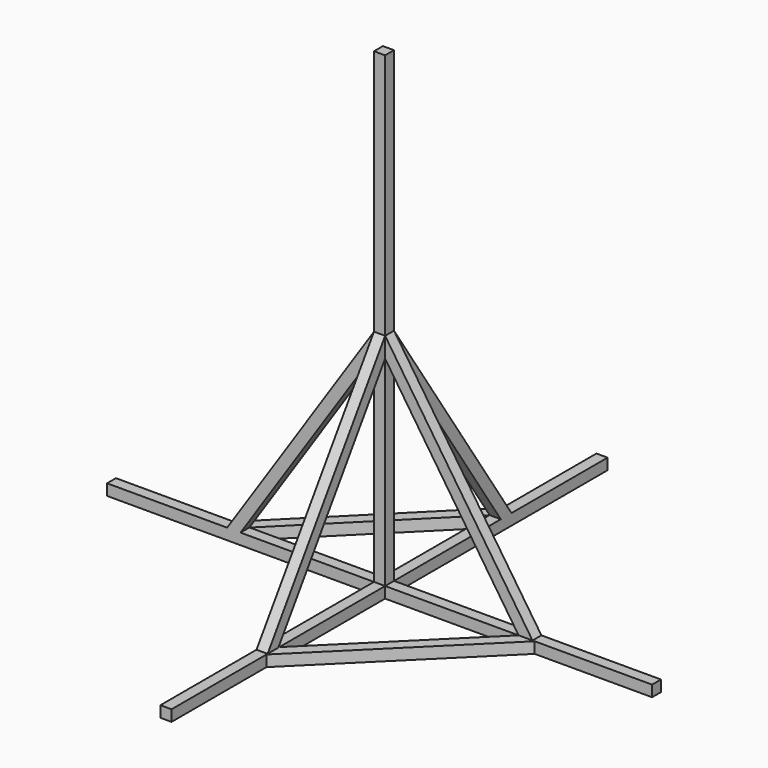
from build123d import *

# Parameters (mm, degrees)
F0_W      = 25.4
F0_H      = 25.4
F1_DEPTH  = 622.3
F2_W      = 25.4
F2_H      = 25.4
F3_DEPTH  = 622.3
F4_W      = 25.4
F4_H      = 25.4
F5_DEPTH  = 622.3
F6_W      = 25.4
F6_H      = 25.4
F7_DEPTH  = 622.3
F9_DEPTH  = 12.7
F10_DEPTH = 12.7
F11_W     = 25.4
F11_H     = 25.4
F12_DEPTH = 1079.5
F14_DEPTH = 12.7
F15_DEPTH = 12.7
F17_DEPTH = 12.7
F18_DEPTH = 12.7
F19_ANGLE = 90
F21_ANGLE = 180


with BuildPart() as f1:
    # F0 (on Front) → F1 (new body)
    with BuildSketch(Plane.XZ):
        Rectangle(F0_W, F0_H)
    extrude(amount=F1_DEPTH)

    # F2 (on Front) → F3 (join)
    with BuildSketch(Plane.XZ):
        Rectangle(F2_W, F2_H)
    extrude(amount=-F3_DEPTH)

    # F4 (on Top) → F5 (join)
    with BuildSketch(Plane.XY):
        Rectangle(F4_W, F4_H)
    extrude(amount=-F5_DEPTH)



with BuildPart() as f7:
    # F6 (on Top) → F7 (new body)
    with BuildSketch(Plane.XY):
        Rectangle(F6_W, F6_H)
    extrude(amount=F7_DEPTH)


with BuildPart() as f1_1:
    add(f1.part)

    add(f7.part)  # F9 merges F7
    # F8 (on Right) → F9 (join)
    with BuildSketch(Plane.YZ):
        Polygon((12.7, 317.5), (317.4895992739, 10.1820296971), (353.2631639393, 10.1820296971), (352.6753836214, 10.7746859253), (317.529985282, 10.7746859253), (12.7403860081, 318.0926562282), (12.7403860081, 353.5296019405), (12.7, 353.5703229692), align=None)
        Polygon((317.529985282, 10.7746859253), (352.6753836214, 10.7746859253), (12.7403860081, 353.5296019405), (12.7403860081, 318.0926562282), align=None)
        Polygon((12.7403860081, 353.5296019405), (352.6753836214, 10.7746859253), (353.3035499474, 10.7746859253), (12.7403860081, 354.1629791974), align=None)
        Polygon((-352.787982248, -12.7), (-317.5, -12.7), (-12.7, -317.5), (-12.7, -352.787982248), (-12.6596139919, -352.8283682561), (-12.6596139919, -316.9073437718), (-317.4596139919, -12.1073437718), (-353.3806384762, -12.1073437718), align=None)
        Polygon((-12.7, -317.5), (-317.5, -12.7), (-352.787982248, -12.7), (-12.7, -352.787982248), align=None)
        Polygon((-12.7, -352.787982248), (-352.787982248, -12.7), (-353.4210244843, -12.7), (-12.7, -353.4210244843), align=None)
    extrude(amount=F9_DEPTH)

    # F8 (on Right) → F10 (join)
    with BuildSketch(Plane.YZ):
        Polygon((12.7, 317.5), (317.4895992739, 10.1820296971), (353.2631639393, 10.1820296971), (352.6753836214, 10.7746859253), (317.529985282, 10.7746859253), (12.7403860081, 318.0926562282), (12.7403860081, 353.5296019405), (12.7, 353.5703229692), align=None)
        Polygon((317.529985282, 10.7746859253), (352.6753836214, 10.7746859253), (12.7403860081, 353.5296019405), (12.7403860081, 318.0926562282), align=None)
        Polygon((12.7403860081, 353.5296019405), (352.6753836214, 10.7746859253), (353.3035499474, 10.7746859253), (12.7403860081, 354.1629791974), align=None)
        Polygon((-352.787982248, -12.7), (-317.5, -12.7), (-12.7, -317.5), (-12.7, -352.787982248), (-12.6596139919, -352.8283682561), (-12.6596139919, -316.9073437718), (-317.4596139919, -12.1073437718), (-353.3806384762, -12.1073437718), align=None)
        Polygon((-12.7, -317.5), (-317.5, -12.7), (-352.787982248, -12.7), (-12.7, -352.787982248), align=None)
        Polygon((-12.7, -352.787982248), (-352.787982248, -12.7), (-353.4210244843, -12.7), (-12.7, -353.4210244843), align=None)
    extrude(amount=-F10_DEPTH)

    # F11 (on Right) → F12 (join)
    with BuildSketch(Plane.YZ):
        Rectangle(F11_W, F11_H)
    extrude(amount=F12_DEPTH)

    # F13 (on Front) → F14 (join)
    with BuildSketch(Plane.XZ):
        Polygon((12.7, 349.2973023653), (12.7, 317.5), (469.9, 12.7), (515.6905011984, 12.7), align=None)
        Polygon((515.6905011984, -12.7), (469.9, -12.7), (12.7, -317.5), (12.7, -348.0270007989), align=None)
    extrude(amount=F14_DEPTH)

    # F13 (on Front) → F15 (join)
    with BuildSketch(Plane.XZ):
        Polygon((12.7, 349.2973023653), (12.7, 317.5), (469.9, 12.7), (515.6905011984, 12.7), align=None)
        Polygon((515.6905011984, -12.7), (469.9, -12.7), (12.7, -317.5), (12.7, -348.0270007989), align=None)
    extrude(amount=-F15_DEPTH)

    # F16 (on Top) → F17 (join)
    with BuildSketch(Plane.XY):
        Polygon((12.7, 317.5), (469.9, 12.7), (515.6905011984, 12.7), (12.7, 348.0270007989), align=None)
        Polygon((515.6905011984, -12.7), (469.9, -12.7), (12.7, -317.5), (12.7, -348.0270007989), align=None)
    extrude(amount=F17_DEPTH)

    # F16 (on Top) → F18 (join)
    with BuildSketch(Plane.XY):
        Polygon((12.7, 317.5), (469.9, 12.7), (515.6905011984, 12.7), (12.7, 348.0270007989), align=None)
        Polygon((515.6905011984, -12.7), (469.9, -12.7), (12.7, -317.5), (12.7, -348.0270007989), align=None)
    extrude(amount=-F18_DEPTH)


with BuildPart() as f1_2:
    # F19: moved
    add(f1_1.part.rotate(Axis((-12.7, -311.15, -12.7), (0, 1, 0)), F19_ANGLE))


with BuildPart() as f1_3:
    # F20: moved
    add(f1_2.part.moved(Location((0, 0, -25.4))))


with BuildPart() as f1_4:
    # F21: moved
    add(f1_3.part.rotate(Axis((311.15, 12.7, -38.1), (-1, 0, 0)), F21_ANGLE))


with BuildPart() as f1_5:
    # F22: moved
    add(f1_4.part.moved(Location((0, -25.4, 0))))


with BuildPart() as f1_6:
    # F23: moved
    add(f1_5.part.moved(Location((0, 0, 25.4))))


solid = f1_6.part
